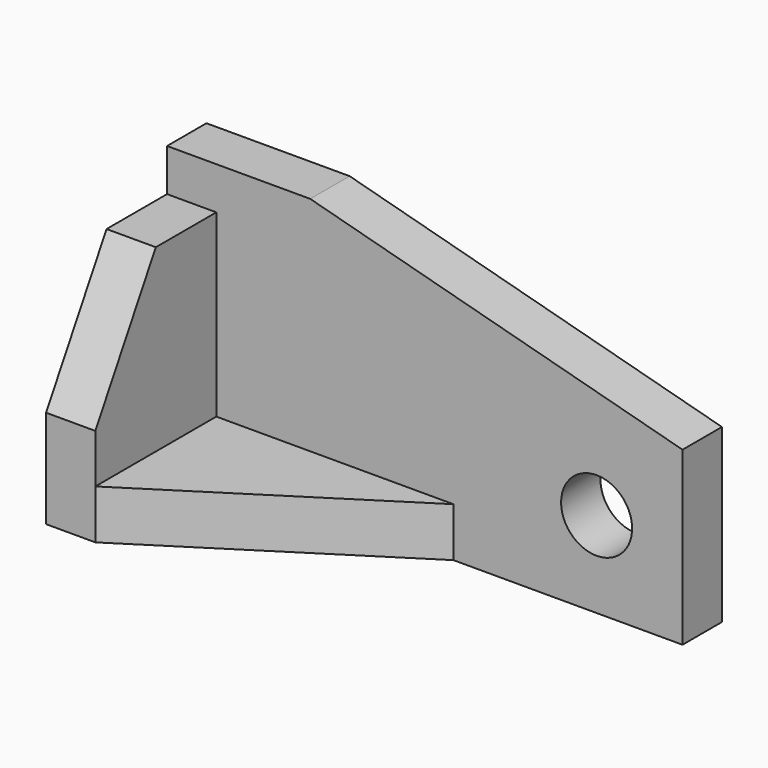
from build123d import *

# Parameters (mm, degrees)
F1_DEPTH = 60.198
F2_DEPTH = 60.198
F3_SIZE2 = 22.119206
F3_SIZE  = 82.55
F5_DEPTH = 10.922
F6_D     = 15.748
F4_W     = 10.922
F4_H     = 28.702
F7_DEPTH = 33.528
F4_H_2   = 22.098
F8_DEPTH = 33.528
F9_SIZE2 = 29.0361
F9_SIZE  = 16.764


with BuildPart() as f1:
    # F0 (on Top) → F1 (new body)
    with BuildSketch(Plane.XY):
        Polygon((-18.230777, 29.177068), (-49.980777, 29.177068), (-49.980777, 18.255068), (-39.058777, 18.255068), (-18.230777, 18.255068), align=None)
    extrude(amount=F1_DEPTH)

    # F0 (on Top) → F2 (join)
    with BuildSketch(Plane.XY):
        Polygon((64.319223, 29.177068), (-18.230777, 29.177068), (-18.230777, 18.255068), (13.519223, 18.255068), (64.319223, 18.255068), align=None)
    extrude(amount=F2_DEPTH)

    # F3
    f3_edges = [f1.edges().sort_by_distance(p)[0] for p in [
        (64.319223, 23.716068, 60.198),
    ]]
    chamfer(f3_edges, length=F3_SIZE, length2=F3_SIZE2)

    # F0 (on Top) → F5 (join)
    with BuildSketch(Plane.XY):
        Polygon((13.519223, 18.255068), (-18.230777, 18.255068), (-39.058777, 18.255068), (-39.058777, -15.272932), align=None)
    extrude(amount=F5_DEPTH)

    # F6 (through all)
    with Locations(Plane.XZ.offset(-18.255068)):
        with Locations((45.269223, 19.05)):
            Hole(F6_D / 2)

    # F4 (on face) → F7 (join)
    with BuildSketch(Plane.XZ.offset(-18.255068)):
        with Locations((-44.519777, 36.449)):
            Rectangle(F4_W, F4_H)
    extrude(amount=F7_DEPTH)

    # F4 (on face) → F8 (join)
    with BuildSketch(Plane.XZ.offset(-18.255068)):
        with Locations((-44.519777, 11.049)):
            Rectangle(F4_W, F4_H_2)
    extrude(amount=F8_DEPTH)

    # F9
    f9_edges = [f1.edges().sort_by_distance(p)[0] for p in [
        (-44.519777, -15.272932, 50.8),
    ]]
    chamfer(f9_edges, length=F9_SIZE, length2=F9_SIZE2)


solid = f1.part
